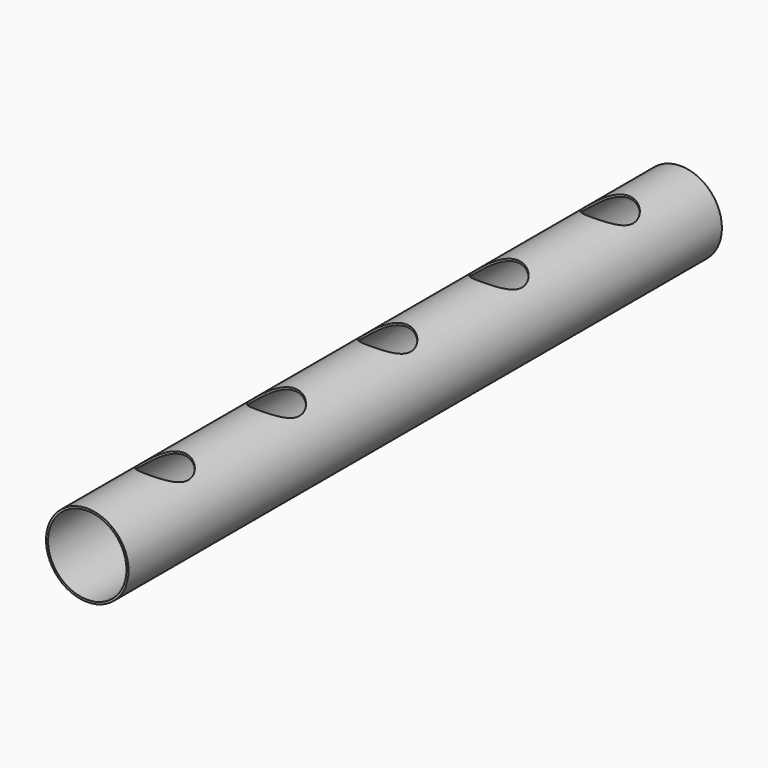
from build123d import *

# Parameters (mm, degrees)
F0_R     = 44.5
F0_R_2   = 42.3
F1_DEPTH = 800
F2_R     = 25
F3_DEPTH = 44.501


with BuildPart() as f1:
    # F0 (on Front) → F1 (new body)
    with BuildSketch(Plane.XZ):
        Circle(F0_R)
        Circle(F0_R_2, mode=Mode.SUBTRACT)
    extrude(amount=F1_DEPTH)

    # F2 (on Top) → F3 (cut, through all)
    with BuildSketch(Plane.XY):
        with Locations((0, -95)):
            Circle(F2_R)
        with Locations((0, -245)):
            Circle(F2_R)
        with Locations((0, -395)):
            Circle(F2_R)
        with Locations((0, -545)):
            Circle(F2_R)
        with Locations((0, -695)):
            Circle(F2_R)
    extrude(amount=F3_DEPTH, mode=Mode.SUBTRACT)


solid = f1.part
